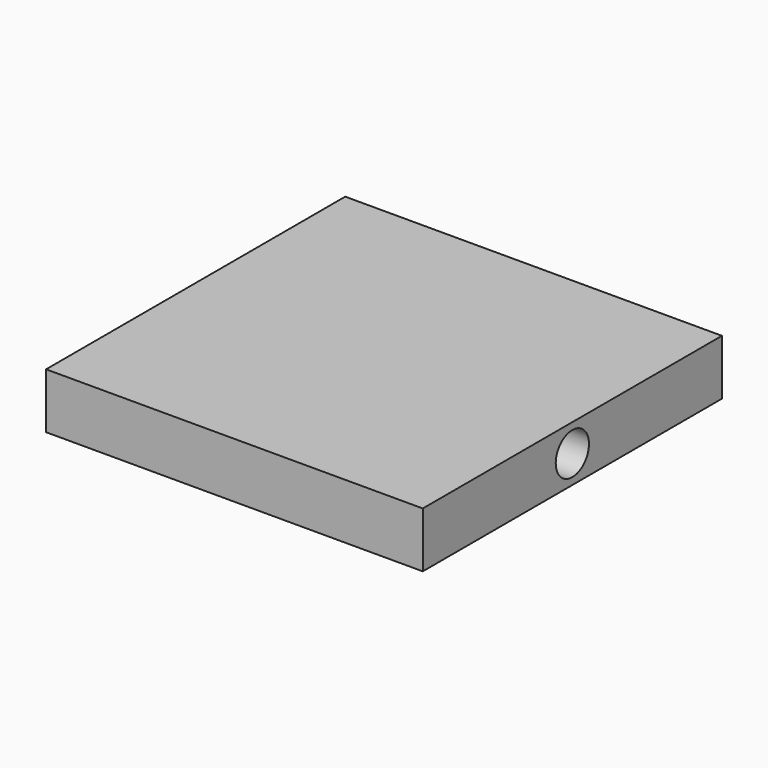
from build123d import *

# Parameters (mm, degrees)
F0_W     = 135
F0_H     = 20
F1_DEPTH = 136
F3_D     = 15


with BuildPart() as f1:
    # F0 (on Right) → F1 (new body)
    with BuildSketch(Plane.YZ):
        Rectangle(F0_W, F0_H)
    extrude(amount=F1_DEPTH)

    # F3 (through all)
    with Locations(Plane.YZ.offset(136)):
        with Locations((0, 0)):
            Hole(F3_D / 2)


solid = f1.part
